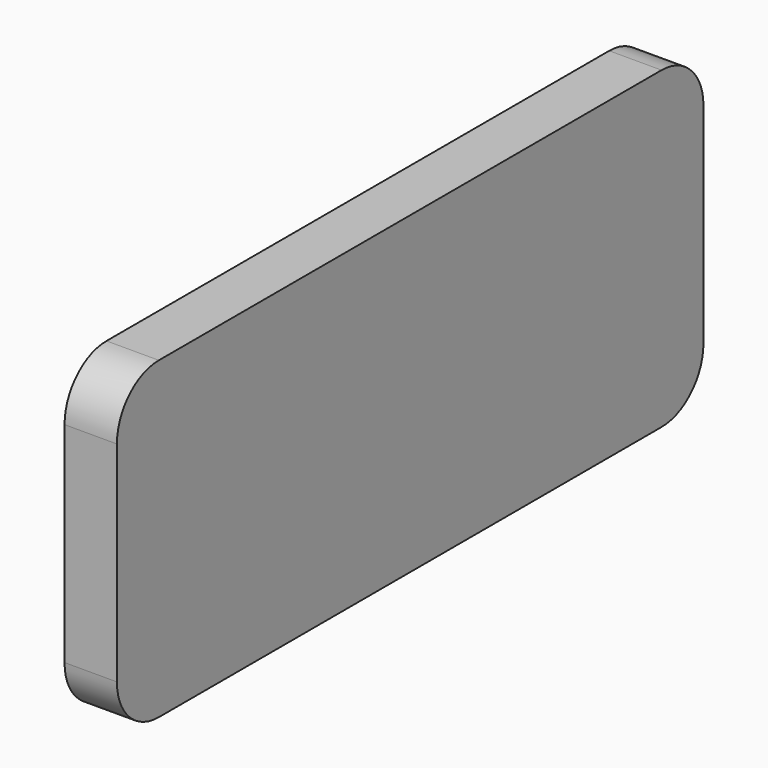
from build123d import *

# Parameters (mm, degrees)
F1_DEPTH = 6.35


with BuildPart() as f1:
    # F0 (on Right) → F1 (new body)
    with BuildSketch(Plane.YZ):
        with BuildLine():
            ThreePointArc((44.45, 12.7), (42.590128, 17.190128), (38.1, 19.05))
            Line((38.1, 19.05), (-38.1, 19.05))
            ThreePointArc((-38.1, 19.05), (-42.590128, 17.190128), (-44.45, 12.7))
            Line((-44.45, 12.7), (-44.45, -12.7))
            ThreePointArc((-44.45, -12.7), (-42.590128, -17.190128), (-38.1, -19.05))
            Line((-38.1, -19.05), (38.1, -19.05))
            ThreePointArc((38.1, -19.05), (42.590128, -17.190128), (44.45, -12.7))
            Line((44.45, -12.7), (44.45, 12.7))
        make_face()
    extrude(amount=F1_DEPTH)


solid = f1.part
